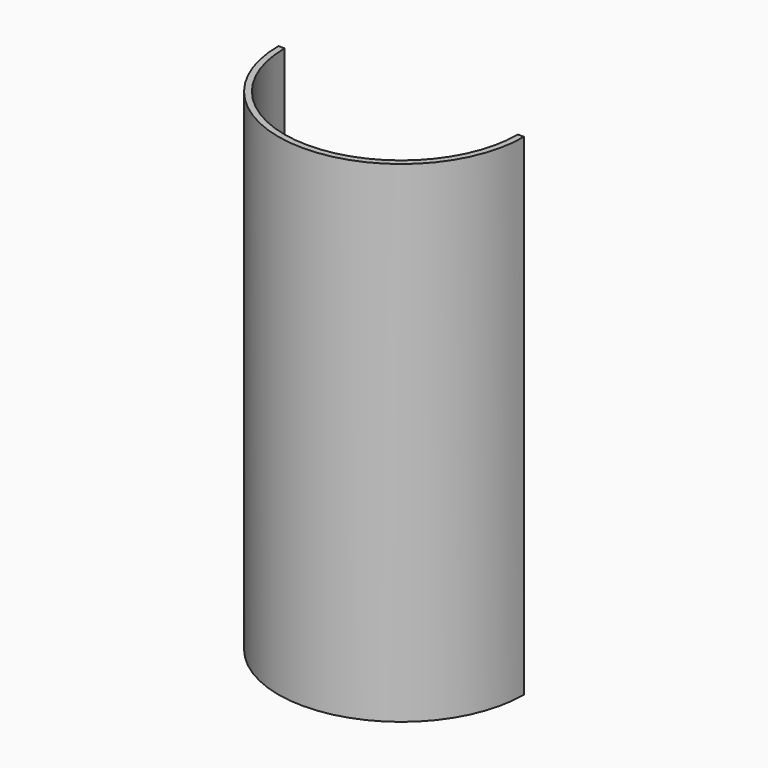
from build123d import *

# Parameters (mm, degrees)
SKETCH001_W  = 5000
SKETCH001_H  = 2000
PAD001_DEPTH = 20000
SKETCH_R     = 1000
SKETCH_R_2   = 950
PAD_DEPTH    = 4000


with BuildPart() as pad001:
    # Sketch001 → Pad001 (new body)
    with BuildSketch(Plane.XY):
        with Locations((0, 1000)):
            Rectangle(SKETCH001_W, SKETCH001_H)
    extrude(amount=PAD001_DEPTH)


with BuildPart() as cut:
    # Sketch → Pad (new body)
    with BuildSketch(Plane.XY):
        Circle(SKETCH_R)
        Circle(SKETCH_R_2, mode=Mode.SUBTRACT)
    extrude(amount=PAD_DEPTH)

    # Cut: cut Pad001
    add(pad001.part, mode=Mode.SUBTRACT)


solid = cut.part
